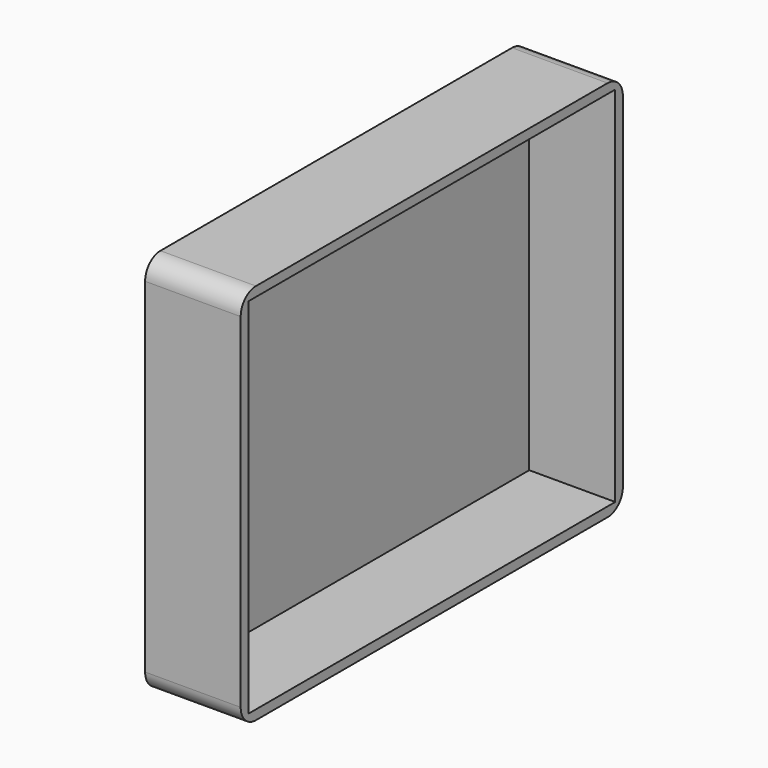
from build123d import *

# Parameters (mm, degrees)
F0_W     = 127
F0_H     = 101.6
F1_DEPTH = 25.4
F2_DEPTH = 6.35
F3_T     = -2.54
F4_R     = 5.08


with BuildPart() as f1:
    # F0 (on Right) → F1 (new body)
    with BuildSketch(Plane.YZ):
        with Locations((63.5, 50.8)):
            Rectangle(F0_W, F0_H)
    extrude(amount=F1_DEPTH)

    # F0 (on Right) → F2 (join)
    with BuildSketch(Plane.YZ):
        with Locations((63.5, 50.8)):
            Rectangle(F0_W, F0_H)
    extrude(amount=F2_DEPTH)

    # F3
    f3_openings = [f1.faces().sort_by_distance(p)[0] for p in [
        (25.4, 63.5, 50.8),
    ]]
    offset(amount=F3_T, openings=f3_openings)

    # F4
    f4_edges = [f1.edges().sort_by_distance(p)[0] for p in [
        (12.7, 0, 101.6),
        (12.7, 0, 0),
        (12.7, 127, 0),
        (12.7, 127, 101.6),
    ]]
    fillet(f4_edges, radius=F4_R)


solid = f1.part
